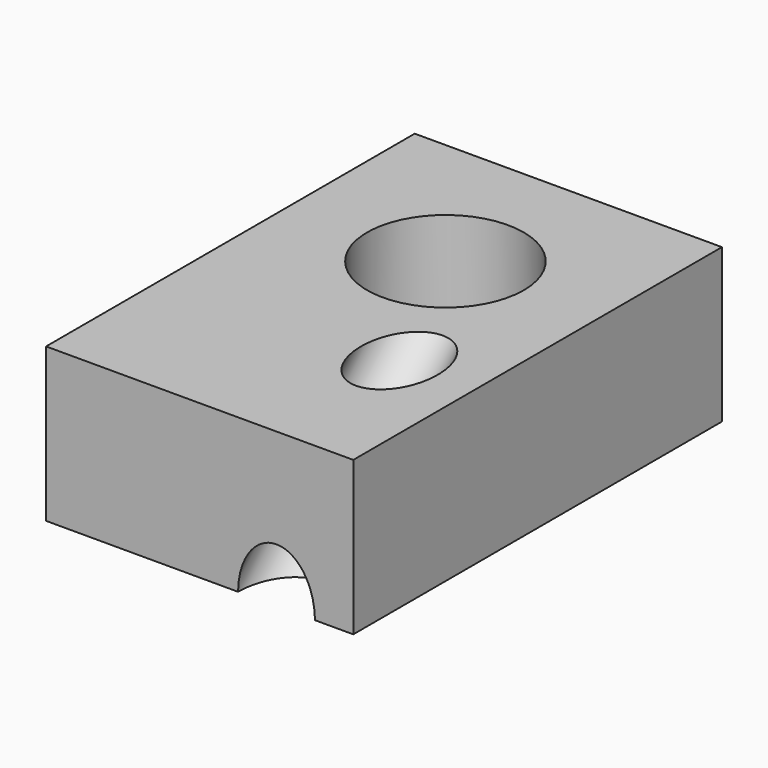
from build123d import *

# Parameters (mm, degrees)
F0_W     = 20
F0_H     = 30
F0_R     = 3.075
F1_DEPTH = 10
F2_R     = 5.1
F2_R_2   = 3.075
F3_DEPTH = 6
F5_R     = 2.5
F6_DEPTH = 25


with BuildPart() as f1:
    # F0 (on Top) → F1 (new body)
    with BuildSketch(Plane.XY):
        with Locations((0, -5)):
            Rectangle(F0_W, F0_H)
        Circle(F0_R, mode=Mode.SUBTRACT)
    extrude(amount=F1_DEPTH)

    # F2 (on face) → F3 (cut)
    with BuildSketch(Plane.XY.offset(10)):
        Circle(F2_R)
        Circle(F2_R_2, mode=Mode.SUBTRACT)
    extrude(amount=-F3_DEPTH, mode=Mode.SUBTRACT)

    # F5 (on face) → F6 (cut)
    with BuildSketch(Plane(origin=(0, -10, -10), x_dir=(-1, 0, 0), z_dir=(0, 0.707107, 0.707107))):
        with Locations((-5, 14.142136)):
            Circle(F5_R)
    extrude(amount=F6_DEPTH, mode=Mode.SUBTRACT)


solid = f1.part
